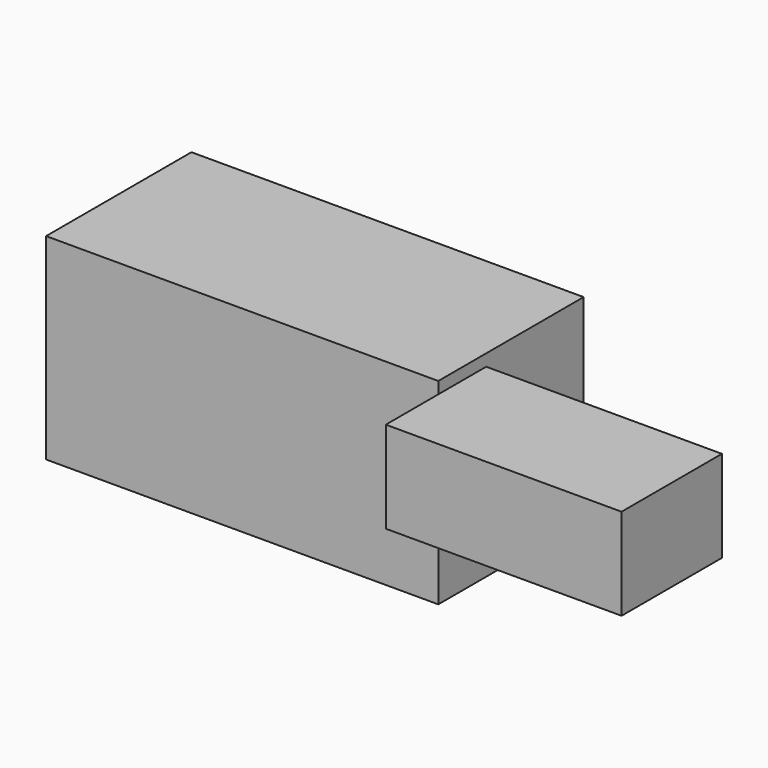
from build123d import *

# Parameters (mm, degrees)
F0_W     = 181.840583
F0_H     = 84.236224
F1_DEPTH = 91.186
F2_W     = 109.297872
F2_H     = 42.48137
F3_DEPTH = 58.166


with BuildPart() as f1:
    # F0 (on Top) → F1 (new body)
    with BuildSketch(Plane.XY):
        with Locations((-35.153545, -52.402159)):
            Rectangle(F0_W, F0_H)
    extrude(amount=F1_DEPTH)


with BuildPart() as f3:
    # F2 (on face) → F3 (new body)
    with BuildSketch(Plane.XZ.offset(94.520271)):
        with Locations((132.616818, 82.98165)):
            Rectangle(F2_W, F2_H)
    extrude(amount=F3_DEPTH)


solid = Compound([f1.part, f3.part])
